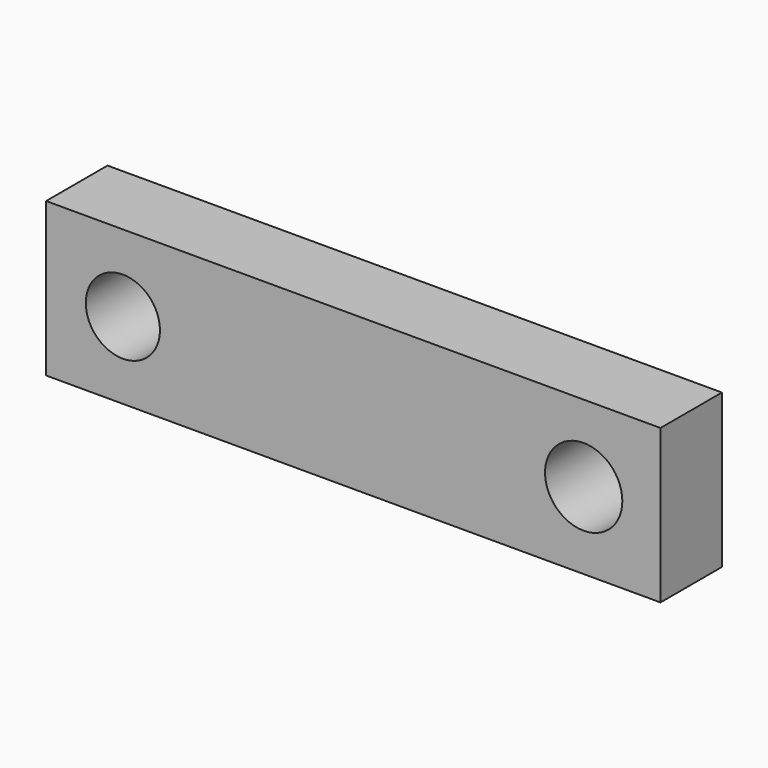
from build123d import *

# Parameters (mm, degrees)
F0_W     = 101.6
F0_H     = 25.4
F0_R     = 6.130879
F0_R_2   = 6.391776
F1_DEPTH = 12.7


with BuildPart() as f1:
    # F0 (on Front) → F1 (new body)
    with BuildSketch(Plane.XZ):
        with Locations((38.1, 0)):
            Rectangle(F0_W, F0_H)
        Circle(F0_R, mode=Mode.SUBTRACT)
        with Locations((76.2, 0)):
            Circle(F0_R_2, mode=Mode.SUBTRACT)
    extrude(amount=F1_DEPTH)


solid = f1.part
